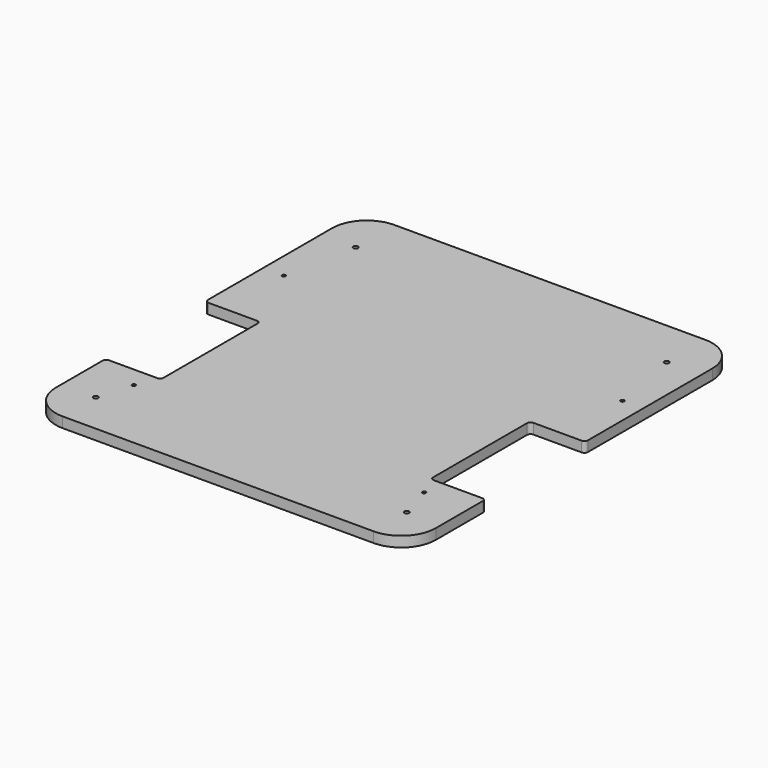
from build123d import *

# Parameters (mm, degrees)
PAD_DEPTH     = 15
SKETCH001_R   = 30
POCKET_DEPTH  = 5
SKETCH002_R   = 3.4
HOLE_DEPTH    = 15.001
FILLET_R      = 5
SKETCH003_R   = 2.5
HOLE001_DEPTH = 15.001


with BuildPart() as part:
    # Sketch → Pad (new body)
    with BuildSketch(Plane.XY):
        with BuildLine():
            Line((50, 0), (500, 0))
            ThreePointArc((500, 0), (535.355339, 14.644661), (550, 50))
            Line((550, 50), (550, 140))
            Line((470, 140), (550, 140))
            Line((470, 320), (470, 140))
            Line((550, 320), (470, 320))
            Line((550, 320), (550, 550))
            ThreePointArc((550, 550), (535.355339, 585.355339), (500, 600))
            Line((500, 600), (50, 600))
            ThreePointArc((50, 600), (14.644661, 585.355339), (0, 550))
            Line((0, 550), (0, 320))
            Line((0, 320), (80, 320))
            Line((80, 320), (80, 140))
            Line((80, 140), (0, 140))
            Line((0, 140), (0, 50.00011))
            ThreePointArc((0, 50.00011), (14.644622, 14.6447), (50, 0))
        make_face()
    extrude(amount=PAD_DEPTH)

    # Sketch001 (on Face17 of Pad) → Pocket (cut)
    with BuildSketch(Plane(origin=(0, 0, 0), x_dir=(1, 0, 0), z_dir=(0, 0, -1))):
        with Locations((500, -60)):
            Circle(SKETCH001_R)
        with Locations((50, -60)):
            Circle(SKETCH001_R)
        with Locations((500, -530)):
            Circle(SKETCH001_R)
        with Locations((50, -530)):
            Circle(SKETCH001_R)
    extrude(amount=-POCKET_DEPTH, mode=Mode.SUBTRACT)

    # Sketch002 (on Face4 of Pocket) → Hole (cut, through all)
    with BuildSketch(Plane(origin=(0, 0, 0), x_dir=(1, 0, 0), z_dir=(0, 0, -1))):
        with Locations((50, -60)):
            Circle(SKETCH002_R)
        with Locations((500, -60)):
            Circle(SKETCH002_R)
        with Locations((500, -530)):
            Circle(SKETCH002_R)
        with Locations((50, -530)):
            Circle(SKETCH002_R)
    extrude(amount=-HOLE_DEPTH, mode=Mode.SUBTRACT)

    # Fillet
    fillet_edges = [part.edges().sort_by_distance(p)[0] for p in [
        (550, 320, 7.5),
        (550, 140, 7.5),
        (470, 320, 7.5),
        (470, 140, 7.5),
        (80, 140, 7.5),
        (0, 140, 7.5),
        (0, 320, 7.5),
        (80, 320, 7.5),
    ]]
    fillet(fillet_edges, radius=FILLET_R)

    # Sketch003 (on Face5 of Fillet) → Hole001 (cut, through all)
    with BuildSketch(Plane.XY.offset(15)):
        with Locations((30, 425)):
            Circle(SKETCH003_R)
        with Locations((520, 425)):
            Circle(SKETCH003_R)
        with Locations((65, 110)):
            Circle(SKETCH003_R)
        with Locations((485, 110)):
            Circle(SKETCH003_R)
    extrude(amount=-HOLE001_DEPTH, mode=Mode.SUBTRACT)


solid = part.part
